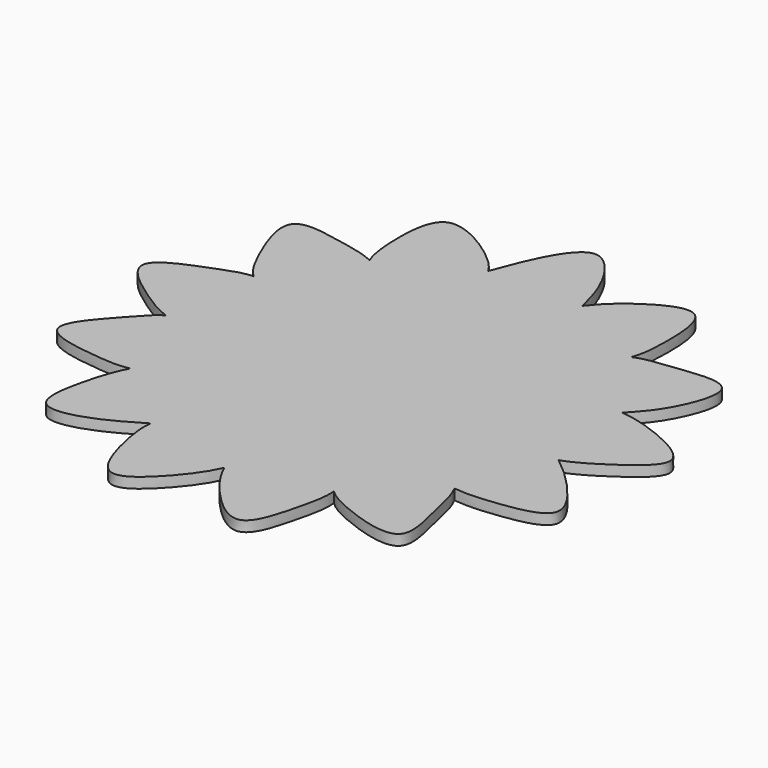
from build123d import *

# Parameters (mm, degrees)
F1_DEPTH = 2


with BuildPart() as f1:
    # F0 (on Top) → F1 (new body)
    with BuildSketch(Plane.XY):
        with BuildLine():
            add(Edge.make_bspline(
                [(8.995608348, 36.4050687467), (10.2250719177, 38.097034505), (13.6589599988, 41.7149175921), (25.5955300959, 48.4682255261), (26.0843100784, 34.3708774374), (25.6201500996, 29.6729336435), (24.8834946426, 28.0546198401)],
                knots=[0, 0, 0, 0, 0.2347675273, 0.5014334491, 0.7766140275, 1, 1, 1, 1], degree=3))
            Line((8.995608348, 36.4050687467), (0, 0))
            Line((0, 0), (24.8834946426, 28.0546198401))
        make_face()
        with BuildLine():
            Line((0, 0), (8.995608348, 36.4050687467))
            add(Edge.make_bspline(
                [(-8.9530634103, 36.415555132), (-8.0676845829, 38.5842998674), (-6.6044870494, 43.2793499849), (-0.1542762005, 54.4284619793), (7.455159763, 43.5141910858), (8.4324257284, 38.4195858946), (8.995608348, 36.4050687467)],
                knots=[0, 0, 0, 0, 0.2393276816, 0.4985893457, 0.7631528811, 1, 1, 1, 1], degree=3))
            Line((-8.9530634103, 36.415555132), (0, 0))
        make_face()
        with BuildLine():
            Line((-24.8506962374, 28.0836766916), (0, 0))
            Line((0, 0), (-8.9530634103, 36.415555132))
            add(Edge.make_bspline(
                [(-24.8506962374, 28.0836766916), (-25.6628681631, 29.8793252879), (-26.4649666019, 36.1506343141), (-25.2270173347, 48.1096377258), (-13.2904852911, 41.4756129268), (-9.7690060461, 37.8908584592), (-8.9530634103, 36.415555132)],
                knots=[0, 0, 0, 0, 0.2484287437, 0.5012169424, 0.7759428266, 1, 1, 1, 1], degree=3))
        make_face()
        with BuildLine():
            Line((-35.0553340398, 13.3181663662), (0, 0))
            Line((0, 0), (-24.8506962374, 28.0836766916))
            add(Edge.make_bspline(
                [(-35.0553340398, 13.3181663662), (-36.5951279647, 14.674199808), (-39.1982318502, 19.49415695), (-44.1546930569, 32.5841759203), (-31.9940529659, 30.150321327), (-26.5477757802, 29.050730733), (-24.8506962374, 28.0836766916)],
                knots=[0, 0, 0, 0, 0.2391565626, 0.5106192928, 0.7613752386, 1, 1, 1, 1], degree=3))
        make_face()
        with BuildLine():
            Line((-37.2292172763, -4.4983753725), (0, 0))
            Line((0, 0), (-35.0553340398, 13.3181663662))
            add(Edge.make_bspline(
                [(-37.4321529094, -4.6206744183), (-39.4558525839, -3.9341702236), (-44.0815208053, -1.0854790613), (-54.2605226536, 6.7149928666), (-41.3617120783, 11.538769999), (-36.9571120557, 13.3613407498), (-35.0553340398, 13.3181663662)],
                knots=[0.0098330526, 0.0098330526, 0.0098330526, 0.0098330526, 0.2447410219, 0.502452905, 0.7727768736, 1, 1, 1, 1], degree=3))
            add(Edge.make_bspline(
                [(-37.4321529094, -4.6206744183), (-37.3652105766, -4.5791540221), (-37.2975885765, -4.5383911219), (-37.2292172763, -4.4983753725)],
                knots=[0.9912873475, 0.9912873475, 0.9912873475, 0.9912873475, 1, 1, 1, 1], degree=3))
        make_face()
        with BuildLine():
            Line((-30.8743354955, -21.2843935246), (0, 0))
            Line((0, 0), (-37.2292172763, -4.4983753725))
            add(Edge.make_bspline(
                [(-37.4321529094, -4.6206744183), (-37.3652105766, -4.5791540221), (-37.2975885765, -4.5383911219), (-37.2292172763, -4.4983753725)],
                knots=[0.9912873475, 0.9912873475, 0.9912873475, 0.9912873475, 1, 1, 1, 1], degree=3))
            add(Edge.make_bspline(
                [(-30.8743354955, -21.2843935246), (-32.8873856178, -21.6807312231), (-36.9486705565, -21.4604251045), (-51.683764348, -19.5008766799), (-41.9315617489, -9.0924413586), (-39.1238979444, -5.6699644765), (-37.4321529094, -4.6206744183)],
                knots=[0, 0, 0, 0, 0.2237407965, 0.4997428964, 0.7711040033, 0.9912873475, 0.9912873475, 0.9912873475, 0.9912873475], degree=3))
        make_face()
        with BuildLine():
            Line((-17.4465155288, -33.1944136249), (0, 0))
            Line((0, 0), (-30.8743354955, -21.2843935246))
            add(Edge.make_bspline(
                [(-17.4465155288, -33.1944136249), (-17.5771861577, -33.1440515192), (-23.9222987381, -37.4400952624), (-35.9208778388, -40.5655863083), (-33.7501516181, -28.6257717222), (-32.0437988119, -23.3885807139), (-30.8743354955, -21.2843935246)],
                knots=[0.0124983588, 0.0124983588, 0.0124983588, 0.0124983588, 0.2392140282, 0.5054144649, 0.7549839467, 1, 1, 1, 1], degree=3))
        make_face()
        with BuildLine():
            Line((-0.0219091077, -37.4999935999), (0, 0))
            Line((0, 0), (-17.4465155288, -33.1944136249))
            add(Edge.make_bspline(
                [(-0.0219091077, -37.4999935999), (-0.8868252659, -39.4555625785), (-3.4165705577, -43.4469820348), (-13.1674433448, -53.2617688367), (-17.2018109535, -39.6788249219), (-17.7238255452, -35.0602587908), (-17.4465155288, -33.1944136249)],
                knots=[0, 0, 0, 0, 0.2328216882, 0.5004499504, 0.7744306093, 1, 1, 1, 1], degree=3))
        make_face()
        with BuildLine():
            Line((17.4077164259, -33.214776965), (0, 0))
            Line((0, 0), (-0.0219091077, -37.4999935999))
            add(Edge.make_bspline(
                [(17.4077164259, -33.214776965), (17.676822178, -35.2494756233), (16.518525067, -40.3701558936), (13.2486522776, -53.189705064), (3.0022006148, -43.0542780941), (0.8733292369, -39.4135667559), (-0.0219091077, -37.4999935999)],
                knots=[0, 0, 0, 0, 0.2378947034, 0.5001066471, 0.7744050179, 1, 1, 1, 1], degree=3))
        make_face()
        with BuildLine():
            Line((30.8494439121, -21.3204552089), (0, 0))
            Line((0, 0), (17.4077164259, -33.214776965))
            add(Edge.make_bspline(
                [(30.8494439121, -21.3204552089), (31.9849303624, -23.4302723711), (32.8548547667, -28.7245904747), (36.3039788485, -40.6419472083), (23.3255403309, -36.9445065203), (18.8073610868, -34.5509271762), (17.4077164259, -33.214776965)],
                knots=[0, 0, 0, 0, 0.2468724173, 0.4988692281, 0.7662285782, 1, 1, 1, 1], degree=3))
        make_face()
        with BuildLine():
            Line((37.2239355741, -4.5418741038), (0, 0))
            Line((0, 0), (30.8494439121, -21.3204552089))
            add(Edge.make_bspline(
                [(37.2239355741, -4.5418741038), (39.2979944222, -6.1132277656), (43.2754475321, -9.649056858), (50.6035894103, -19.2593948809), (38.4180733042, -21.3052013706), (33.2507812779, -21.6337405305), (30.8494439121, -21.3204552089)],
                knots=[0, 0, 0, 0, 0.2504392217, 0.5001275808, 0.7552895833, 1, 1, 1, 1], degree=3))
        make_face()
        with BuildLine():
            Line((35.0708721932, 13.277195623), (0, 0))
            Line((0, 0), (37.2239355741, -4.5418741038))
            add(Edge.make_bspline(
                [(35.0708721932, 13.277195623), (37.1494039376, 13.0468052908), (40.3864993973, 12.4781975406), (54.1119871336, 6.6052754295), (44.9782894613, -0.4779845695), (39.5482728164, -3.8258378467), (37.2239355741, -4.5418741038)],
                knots=[0, 0, 0, 0, 0.2122031054, 0.4967630631, 0.7382862858, 1, 1, 1, 1], degree=3))
        make_face()
        with BuildLine():
            Line((24.8834946426, 28.0546198401), (0, 0))
            Line((0, 0), (35.0708721932, 13.277195623))
            add(Edge.make_bspline(
                [(24.8834946426, 28.0546198401), (26.8081350426, 28.9737019754), (31.6939818575, 29.2753402925), (44.8186764722, 31.365450234), (39.9172708733, 18.3067797948), (36.6062195972, 14.927477192), (35.0708721932, 13.277195623)],
                knots=[0, 0, 0, 0, 0.2339403239, 0.4977709924, 0.7651281249, 1, 1, 1, 1], degree=3))
        make_face()
    extrude(amount=F1_DEPTH)


with BuildPart() as f2_1:
    # F2: copy of F1
    add(f1.part)


solid = Compound([f1.part, f2_1.part])
